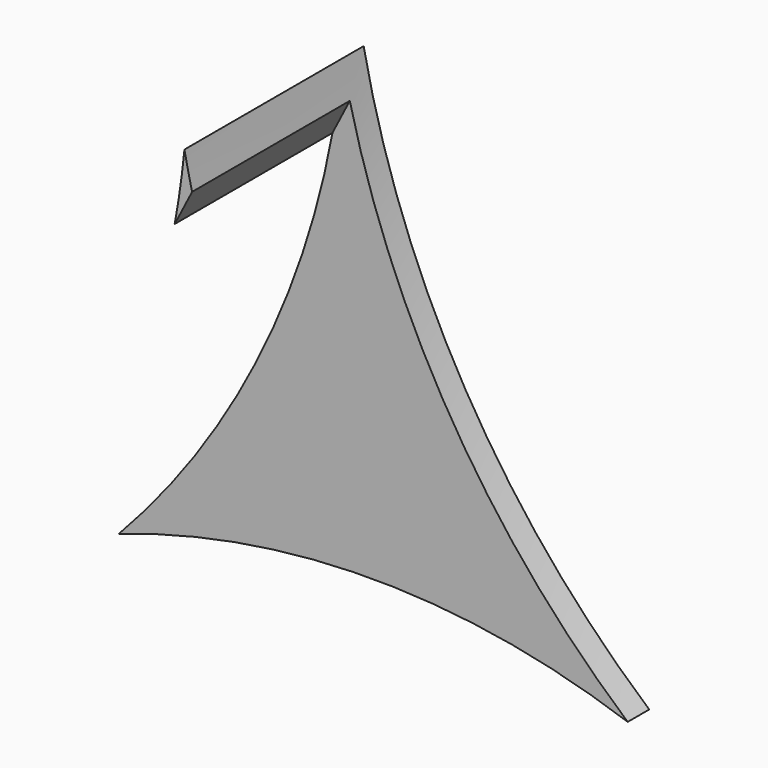
from build123d import *

# Parameters (mm, degrees)
F1_DEPTH = 25.4
F3_DEPTH = 25.4
F4_DEPTH = 25.4
F5_DEPTH = 47.752


with BuildPart() as f1:
    # F0 (on Front) → F1 (new body)
    with BuildSketch(Plane.XZ):
        Polygon((-57.9928606749, 0), (0, 0), (-29.787896201, 55.1148019731), align=None)
    extrude(amount=F1_DEPTH)

    # F2 (on face) → F3 (join)
    with BuildSketch(Plane.XZ):
        with BuildLine():
            ThreePointArc((-32.3781482875, 55.6904152036), (-40.4396180835, 25.7523156056), (-57.7050559223, 0))
            ThreePointArc((-57.7050559223, 0), (-28.8525279611, 4.8719261638), (0, 0))
            ThreePointArc((0, 0), (-20.8306687823, 25.146606075), (-32.3781482875, 55.6904152036))
        make_face()
    extrude(amount=-F3_DEPTH)

    # F4 (cut): faces of the model
    f4_faces = [f1.faces().sort_by_distance(p)[0] for p in [
        (-44.4714868788, 0, 22.9050360722),
        (-28.8525279611, 0, 1.9534765457),
        (-18.405809999, 0, 28.5034341287),
        (-44.4714868788, 0, 22.9050360722),
        (-28.8525279611, 0, 1.9534765457),
        (-18.405809999, 0, 28.5034341287),
        (-28.8525279611, 0, 1.9534765457),
    ]]
    extrude(f4_faces, amount=-F4_DEPTH, mode=Mode.SUBTRACT)

    # F5 (cut): a face of the model
    f5_faces = [f1.faces().sort_by_distance(p)[0] for p in [
        (-30.2908637414, -25.4, 17.8560870297),
    ]]
    extrude(f5_faces, amount=-F5_DEPTH, mode=Mode.SUBTRACT)


solid = f1.part
